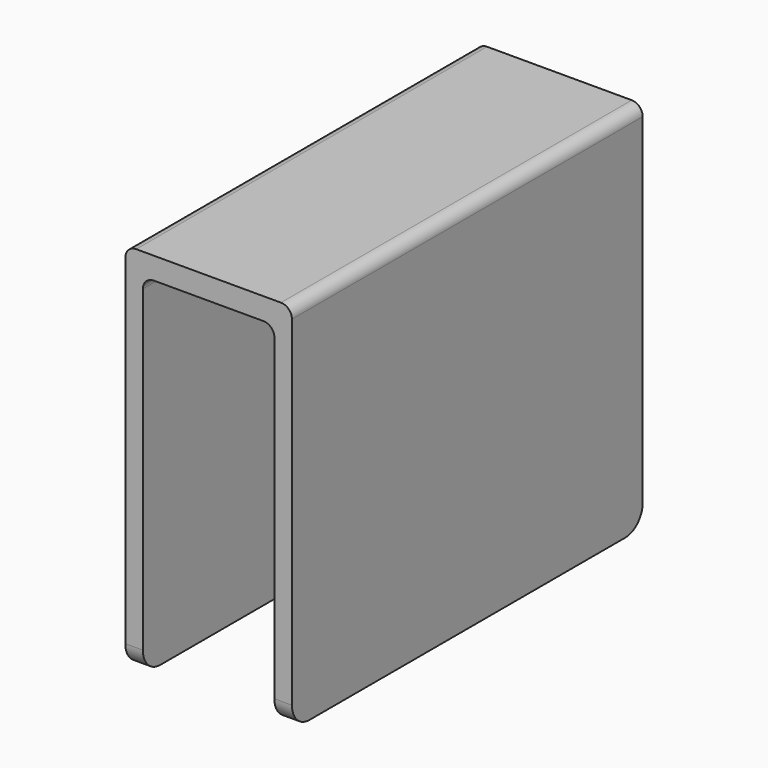
from build123d import *

# Parameters (mm, degrees)
F1_DEPTH = 50
F2_R     = 5


with BuildPart() as f1:
    # F0 (on Front) → F1 (new body, symmetric)
    with BuildSketch(Plane.XZ):
        with BuildLine():
            Line((15.126235, 37.558659), (15.126235, -39.941341))
            Line((15.126235, -39.941341), (19.126235, -39.941341))
            Line((19.126235, -39.941341), (19.126235, 42.558659))
            ThreePointArc((19.126235, 42.558659), (18.394002, 44.326426), (16.626235, 45.058659))
            Line((16.626235, 45.058659), (0.126235, 45.058659))
            Line((0.126235, 45.058659), (-16.373765, 45.058659))
            ThreePointArc((-16.373765, 45.058659), (-18.141532, 44.326426), (-18.873765, 42.558659))
            Line((-18.873765, 42.558659), (-18.873765, -39.941341))
            Line((-18.873765, -39.941341), (-14.873765, -39.941341))
            Line((-14.873765, -39.941341), (-14.873765, 37.558659))
            ThreePointArc((-14.873765, 37.558659), (-14.141532, 39.326426), (-12.373765, 40.058659))
            Line((-12.373765, 40.058659), (12.626235, 40.058659))
            ThreePointArc((12.626235, 40.058659), (14.394002, 39.326426), (15.126235, 37.558659))
        make_face()
    extrude(amount=F1_DEPTH, both=True)

    # F2
    f2_edges = [f1.edges().sort_by_distance(p)[0] for p in [
        (17.126235, -50, -39.941341),
        (-16.873765, -50, -39.941341),
        (17.126235, 50, -39.941341),
        (-16.873765, 50, -39.941341),
    ]]
    fillet(f2_edges, radius=F2_R)


solid = f1.part
